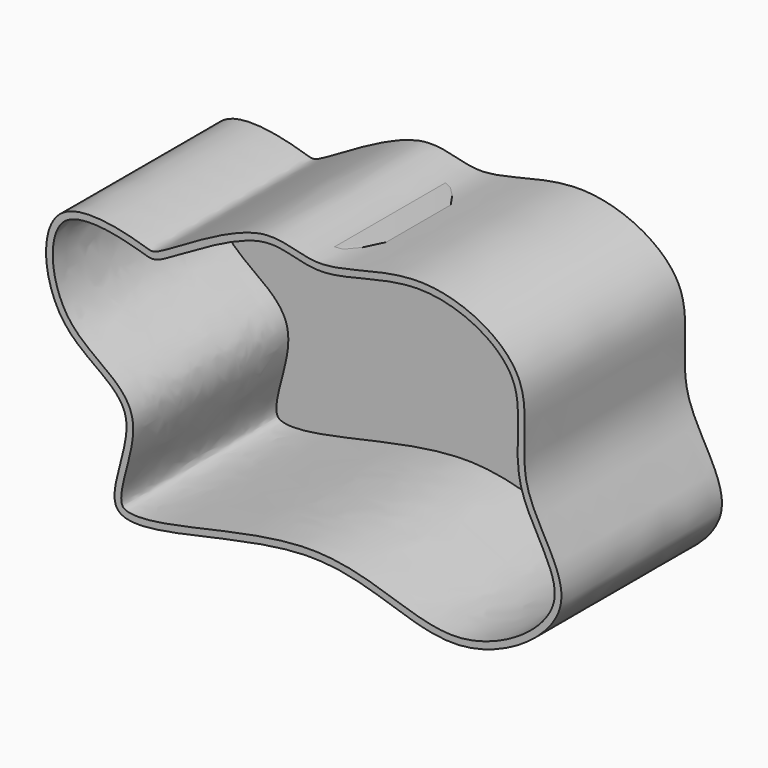
from build123d import *

# Parameters (mm, degrees)
F1_DEPTH = 76.2
F2_T     = -2.54


with BuildPart() as f1:
    # F0 (on Front) → F1 (new body)
    with BuildSketch(Plane.XZ):
        with BuildLine():
            add(Edge.make_bspline(
                [(9.1013191268, 26.6554541886), (-3.5604733522, 24.2656416725), (-29.5527126018, 6.4649763356), (-33.2600050124, 8.0603069166), (-75.7818813762, 20.2610884917), (-71.6070048789, -33.9802214325), (-29.7440182235, -44.6004413623), (-63.157800213, -102.1862404114), (35.8124288558, -60.8274225406), (80.7251622143, -98.8931345727), (138.6646509268, -61.5029381364), (103.319550087, -26.1986548923), (117.5124834761, 13.9434434816), (71.0293428056, 37.8524469816), (31.8028167736, 18.8675278323), (18.4705295597, 28.4238180593), (9.1013191268, 26.6554541886)],
                knots=[0, 0, 0, 0, 0.0770187179, 0.104075088, 0.1703637248, 0.2413492434, 0.3104968352, 0.3772516105, 0.478365534, 0.5691546972, 0.6493933935, 0.7216212009, 0.7921526644, 0.8683181705, 0.9430092875, 1, 1, 1, 1], degree=3))
        make_face()
    extrude(amount=F1_DEPTH)

    # F2
    f2_openings = [f1.faces().sort_by_distance(p)[0] for p in [
        (30.926697, -76.2, -28.679433),
    ]]
    offset(amount=F2_T, openings=f2_openings)


solid = f1.part
